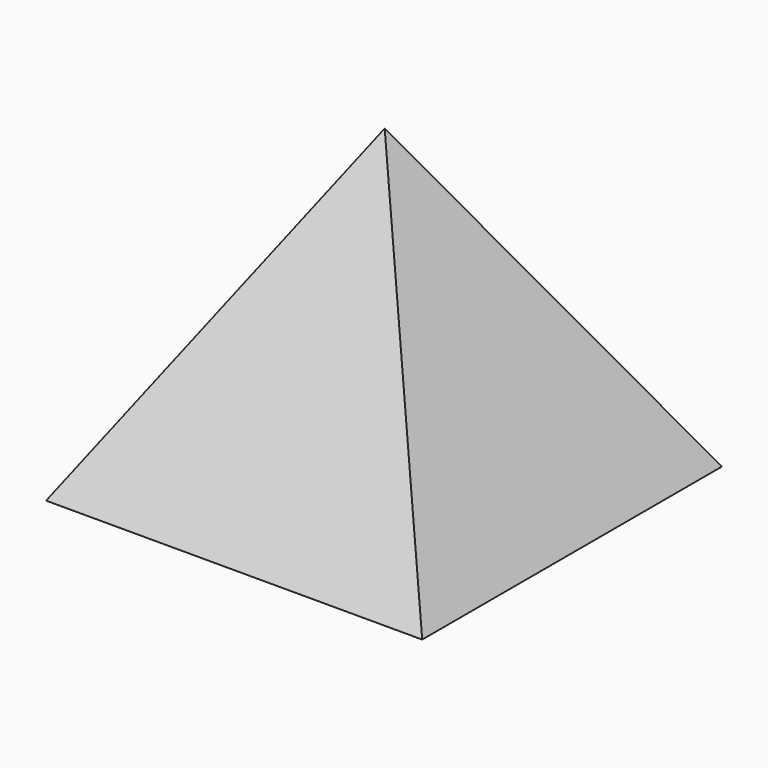
from build123d import *

# Parameters (mm, degrees)
F0_W = 152.7493670583
F0_H = 152.1528810263


with BuildPart() as f3:
    # F0 (on Top) → F3 section 0
    with BuildSketch(Plane.XY, mode=Mode.PRIVATE) as f3_s0:
        with Locations((-0.1762397587, -0.1270994544)):
            Rectangle(F0_W, F0_H)
    loft([f3_s0.sketch, Vertex(0, 0, 127)])


solid = f3.part
